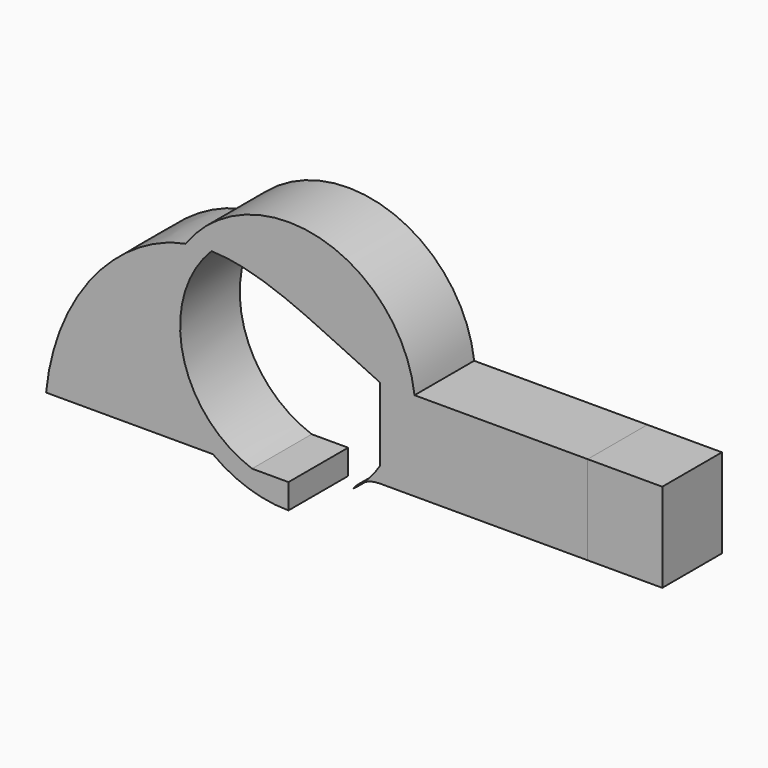
from build123d import *

# Parameters (mm, degrees)
F1_DEPTH = 25.4
F2_DEPTH = 25.4


with BuildPart() as f1:
    # F0 (on Front) → F1 (new body)
    with BuildSketch(Plane.XZ):
        with BuildLine():
            Line((72.4325664917, 52.87509395), (72.4325664917, 58.1607457576))
            ThreePointArc((72.4325664917, 58.1607457576), (69.9703403735, 54.7314871619), (67.1325553807, 51.6058914894))
            ThreePointArc((67.1325553807, 51.6058914894), (69.7076356365, 52.5533702418), (72.4325664917, 52.87509395))
        make_face()
        with BuildLine():
            ThreePointArc((28.867306155, 43.18), (34.9788331249, 41.5726006065), (41.275, 41.0315115251))
            Line((41.275, 41.0315115251), (41.275, 43.18))
            Line((41.275, 43.18), (28.867306155, 43.18))
        make_face()
        with BuildLine():
            Line((143.1810904025, 83.195894794), (84.2056303826, 83.195894794))
            ThreePointArc((84.2056303826, 83.195894794), (83.2038401711, 67.3172338588), (76.5285086007, 52.87509395))
            Line((76.5285086007, 52.87509395), (143.1810904025, 52.87509395))
            Line((143.1810904025, 52.87509395), (143.1810904025, 83.195894794))
        make_face()
        with BuildLine():
            add(Edge.make_bspline(
                [(-41.275, 43.18), (-38.2076507558, 75.0083079933), (-16.3456564999, 98.9918539738), (6.1822470816, 103.2164854954)],
                knots=[0, 0, 0, 0, 0.5125628883, 0.5125628883, 0.5125628883, 0.5125628883], degree=3))
            Line((-41.275, 43.18), (15.5276043564, 43.18))
            ThreePointArc((15.5276043564, 43.18), (-1.4622883665, 71.2809292123), (6.1822470816, 103.2164854954))
        make_face()
        with BuildLine():
            ThreePointArc((72.4325664917, 58.1607457576), (77.3570673495, 70.1979019154), (77.7998067643, 83.195894794))
            Line((77.7998067643, 83.195894794), (72.4325664917, 83.195894794))
            Line((72.4325664917, 83.195894794), (72.4325664917, 58.1607457576))
        make_face()
        with BuildLine():
            ThreePointArc((77.7998067643, 83.195894794), (52.8489424191, 112.9734263429), (15.0705554815, 103.9158054019))
            add(Edge.make_bspline(
                [(15.0705554815, 103.9158054019), (33.6888435037, 103.4873186987), (52.7725714881, 91.9791068), (72.4325664917, 83.195894794)],
                knots=[0.5797094346, 0.5797094346, 0.5797094346, 0.5797094346, 1, 1, 1, 1], degree=3))
            Line((72.4325664917, 83.195894794), (77.7998067643, 83.195894794))
        make_face()
        with BuildLine():
            ThreePointArc((15.5276043564, 43.18), (27.7181501223, 36.8610477658), (41.275, 34.6815100165))
            Line((41.275, 34.6815100165), (41.275, 41.0315115251))
            ThreePointArc((41.275, 41.0315115251), (34.9788331249, 41.5726006065), (28.867306155, 43.18))
            Line((28.867306155, 43.18), (15.5276043564, 43.18))
        make_face()
        with BuildLine():
            ThreePointArc((6.1822470816, 103.2164854954), (-1.4622883665, 71.2809292123), (15.5276043564, 43.18))
            Line((15.5276043564, 43.18), (28.867306155, 43.18))
            ThreePointArc((28.867306155, 43.18), (5.2898110786, 69.7590724553), (15.0705554815, 103.9158054019))
            add(Edge.make_bspline(
                [(6.1822470816, 103.2164854954), (9.1334379611, 103.769918884), (12.0960567855, 103.9842613813), (15.0705554815, 103.9158054019)],
                knots=[0.5125628883, 0.5125628883, 0.5125628883, 0.5125628883, 0.5797094346, 0.5797094346, 0.5797094346, 0.5797094346], degree=3))
        make_face()
        with BuildLine():
            ThreePointArc((84.2056303826, 83.195894794), (52.0250741297, 119.8281966308), (6.1822470816, 103.2164854954))
            add(Edge.make_bspline(
                [(6.1822470816, 103.2164854954), (9.1334379611, 103.769918884), (12.0960567855, 103.9842613813), (15.0705554815, 103.9158054019)],
                knots=[0.5125628883, 0.5125628883, 0.5125628883, 0.5125628883, 0.5797094346, 0.5797094346, 0.5797094346, 0.5797094346], degree=3))
            ThreePointArc((15.0705554815, 103.9158054019), (52.8489424191, 112.9734263429), (77.7998067643, 83.195894794))
            Line((77.7998067643, 83.195894794), (84.2056303826, 83.195894794))
        make_face()
        with BuildLine():
            ThreePointArc((76.5285086007, 52.87509395), (83.2038401711, 67.3172338588), (84.2056303826, 83.195894794))
            Line((84.2056303826, 83.195894794), (77.7998067643, 83.195894794))
            ThreePointArc((77.7998067643, 83.195894794), (77.3570673495, 70.1979019154), (72.4325664917, 58.1607457576))
            Line((72.4325664917, 58.1607457576), (72.4325664917, 52.87509395))
            Line((72.4325664917, 52.87509395), (76.5285086007, 52.87509395))
        make_face()
    extrude(amount=F1_DEPTH)


with BuildPart() as f1b:
    # F0 (on Front) → F1, piece 2 (new body)
    with BuildSketch(Plane.XZ):
        with BuildLine():
            ThreePointArc((63.0104089466, 48.1118913796), (65.1355233085, 49.7833370645), (67.1325553807, 51.6058914894))
            ThreePointArc((67.1325553807, 51.6058914894), (64.8670148478, 50.1001175909), (63.0104089466, 48.1118913796))
        make_face()
    extrude(amount=F1_DEPTH)


with BuildPart() as f2:
    # F2 (new): a face of the model
    f2_faces = [f1.part.faces().sort_by_distance(p)[0] for p in [
        (143.1810904025, -12.7, 68.035494372),
    ]]
    extrude(f2_faces, amount=F2_DEPTH)


solid = Compound([f1.part, f1b.part, f2.part])
